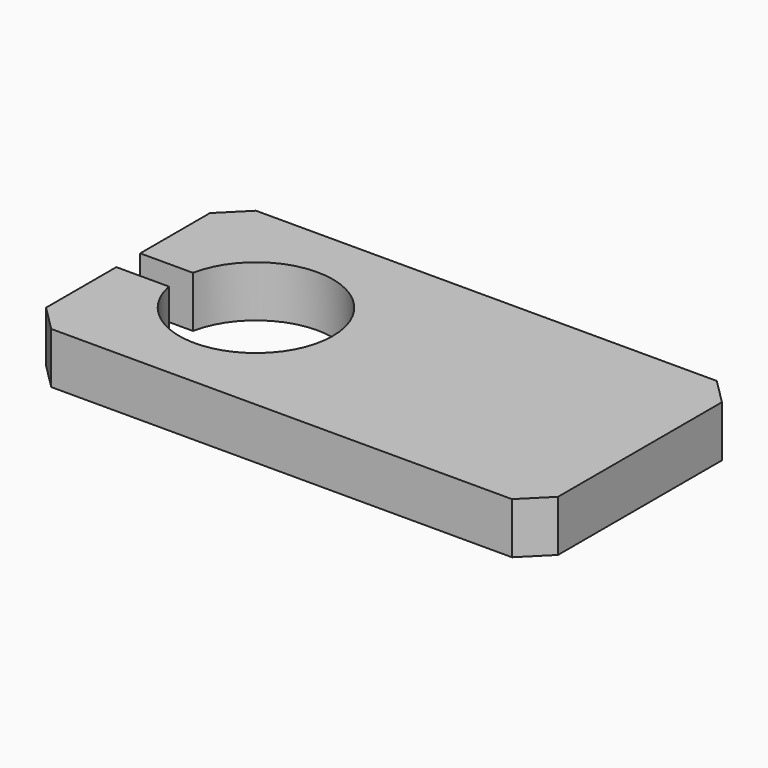
from build123d import *

# Parameters (mm, degrees)
F0_W     = 100
F0_H     = 50
F1_DEPTH = 10
F3_DEPTH = 25
F4_SIZE  = 5


with BuildPart() as f1:
    # F0 (on Top) → F1 (new body)
    with BuildSketch(Plane.XY):
        Rectangle(F0_W, F0_H)
    extrude(amount=F1_DEPTH)

    # F2 (on face) → F3 (cut)
    with BuildSketch(Plane.XY.offset(10)):
        with BuildLine():
            Line((-50, -2.854646), (-39.725862, -2.854646))
            ThreePointArc((-39.725862, -2.854646), (-10.000128, -0.062081), (-39.701728, 2.97644))
            Line((-39.701728, 2.97644), (-50, 2.97644))
            Line((-50, 2.97644), (-50, -2.854646))
        make_face()
    extrude(amount=-F3_DEPTH, mode=Mode.SUBTRACT)

    # F4
    f4_edges = [f1.edges().sort_by_distance(p)[0] for p in [
        (50, 25, 5),
        (50, -25, 5),
        (-50, 25, 5),
        (-50, -25, 5),
    ]]
    chamfer(f4_edges, length=F4_SIZE)


solid = f1.part
